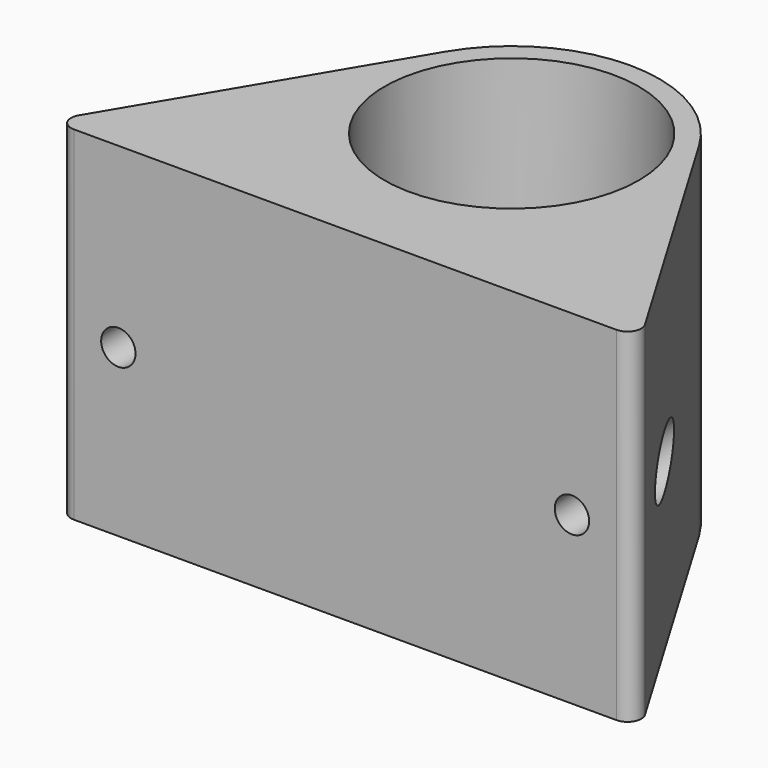
from build123d import *

# Parameters (mm, degrees)
F0_R     = 18.5
F1_DEPTH = 50
F0_R_2   = 16.5
F2_DEPTH = 25
F3_R     = 2.5
F4_DEPTH = 35
F3_R_2   = 4
F5_DEPTH = 21


with BuildPart() as f1:
    # F0 (on Top) → F1 (new body)
    with BuildSketch(Plane.XY):
        with BuildLine():
            ThreePointArc((18.484245, 10.981015), (20.732357, 5.693801), (21.5, 0))
            ThreePointArc((21.5, 0), (-5.693801, -20.732357), (-18.484245, 10.981015))
            Line((-18.484245, 10.981015), (-41.20501, -27.264646))
            ThreePointArc((-41.20501, -27.264646), (-41.223789, -29.275332), (-39.485546, -30.286135))
            Line((-39.485546, -30.286135), (0, -30.286135))
            Line((0, -30.286135), (39.485546, -30.286135))
            ThreePointArc((39.485546, -30.286135), (41.223789, -29.275332), (41.20501, -27.264646))
            Line((41.20501, -27.264646), (18.484245, 10.981015))
        make_face()
        with BuildLine():
            ThreePointArc((-18.484245, 10.981015), (-5.693801, -20.732357), (21.5, 0))
            ThreePointArc((21.5, 0), (20.732357, 5.693801), (18.484245, 10.981015))
            ThreePointArc((18.484245, 10.981015), (0, 21.5), (-18.484245, 10.981015))
        make_face()
        Circle(F0_R, mode=Mode.SUBTRACT)
    extrude(amount=F1_DEPTH)

    # F0 (on Top) → F2 (join)
    with BuildSketch(Plane.XY):
        Circle(F0_R)
        Circle(F0_R_2, mode=Mode.SUBTRACT)
    extrude(amount=F2_DEPTH)

    # F3 (on Front) → F4 (cut)
    with BuildSketch(Plane.XZ):
        with Locations((33, 24.184783)):
            Circle(F3_R)
        with Locations((-33, 24.184783)):
            Circle(F3_R)
    extrude(amount=F4_DEPTH, mode=Mode.SUBTRACT)

    # F3 (on Front) → F5 (cut)
    with BuildSketch(Plane.XZ):
        with Locations((33, 24.184783)):
            Circle(F3_R_2)
        with Locations((33, 24.184783)):
            Circle(F3_R, mode=Mode.SUBTRACT)
        with Locations((-33, 24.184783)):
            Circle(F3_R_2)
        with Locations((-33, 24.184783)):
            Circle(F3_R, mode=Mode.SUBTRACT)
    extrude(amount=F5_DEPTH, mode=Mode.SUBTRACT)


solid = f1.part
